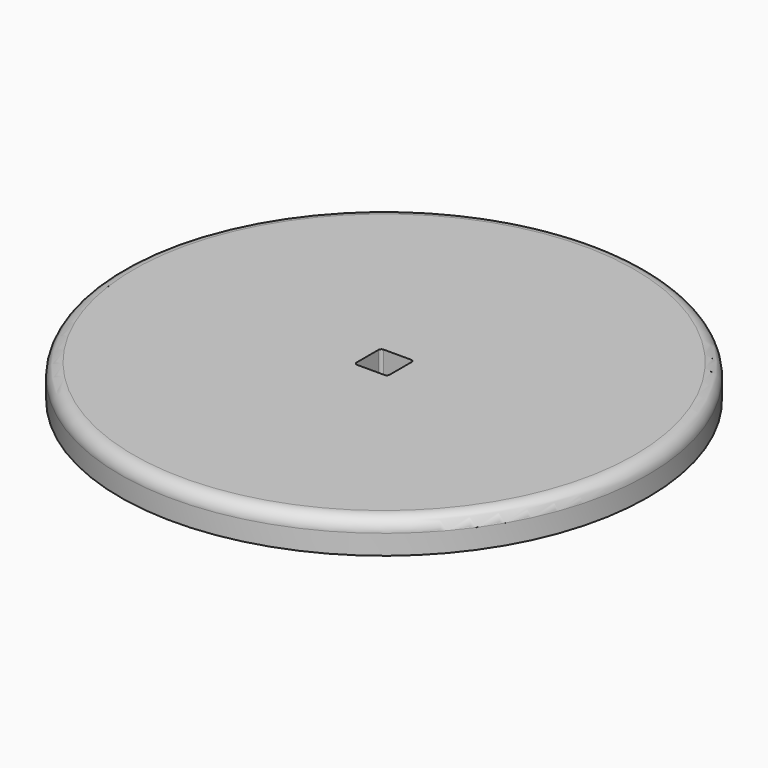
from build123d import *

# Parameters (mm, degrees)
F0_R     = 40
F0_W     = 5.02
F0_H     = 5.02
F1_DEPTH = 5
F2_R     = 0.45
F3_R     = 2


with BuildPart() as f1:
    # F0 (on Top) → F1 (new body)
    with BuildSketch(Plane.XY):
        Circle(F0_R)
        Rectangle(F0_W, F0_H, mode=Mode.SUBTRACT)
    extrude(amount=F1_DEPTH)

    # F2
    f2_edges = [f1.edges().sort_by_distance(p)[0] for p in [
        (-2.51, 2.51, 2.5),
        (-2.51, -2.51, 2.5),
        (2.51, -2.51, 2.5),
        (2.51, 2.51, 2.5),
    ]]
    fillet(f2_edges, radius=F2_R)

    # F3
    f3_edges = [f1.edges().sort_by_distance(p)[0] for p in [
        (-40, 0, 5),
    ]]
    fillet(f3_edges, radius=F3_R)


solid = f1.part
